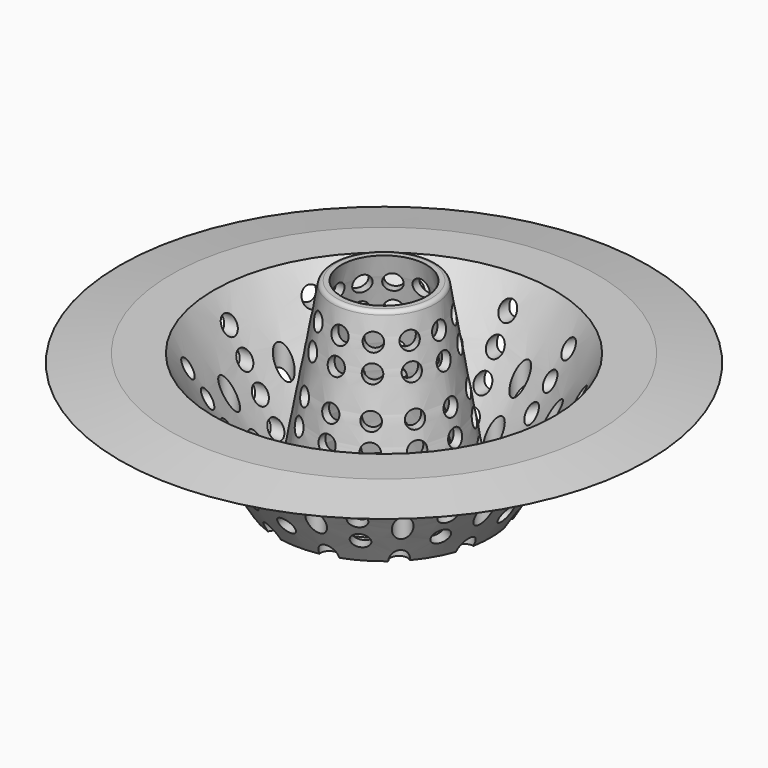
from build123d import *

# Parameters (mm, degrees)
SKETCH001_R           = 2
POCKET_DEPTH          = 424.089387
POLARPATTERN_COUNT    = 12
SKETCH002_R           = 2
POCKET001_DEPTH       = 392.089387
POLARPATTERN001_COUNT = 12
FILLET001_R           = 1
FILLET002_R           = 1


with BuildPart() as part:
    # Sketch → Revolution (revolve)
    with BuildSketch(Plane.XZ):
        Polygon((50, 0), (40, 0), (23, -28), (19.644444, -28), (12, 15), (10, 15), (18, -30), (25, -30), (42, -2), (62, -2), align=None)
    revolve(axis=Axis((0, 0, 0), (0, 0, 1)))

    # Sketch001 → Pocket (cut, through all)
    with BuildSketch(Plane.XZ):
        with Locations((0, -6)):
            Circle(SKETCH001_R)
        with Locations((0, -12)):
            Circle(SKETCH001_R)
        with Locations((0, -18)):
            Circle(SKETCH001_R)
        with Locations((0, -24)):
            Circle(SKETCH001_R)
        with Locations((0, 3)):
            Circle(SKETCH001_R)
        with Locations((0, 9)):
            Circle(SKETCH001_R)
    pocket = extrude(amount=-POCKET_DEPTH, mode=Mode.SUBTRACT)

    # PolarPattern: Pocket ×12 about axis
    polarpattern_axis = Axis((0, 0, 0), (0, 0, 1))
    for i in range(1, POLARPATTERN_COUNT):
        add(pocket.rotate(polarpattern_axis, i * 360 / POLARPATTERN_COUNT), mode=Mode.SUBTRACT)

    # Sketch002 → Pocket001 (cut, through all)
    with BuildSketch(Plane.XY):
        with Locations((6.470476, -24.148146)):
            Circle(SKETCH002_R)
        with Locations((8.02339, -29.943701)):
            Circle(SKETCH002_R)
    pocket001 = extrude(amount=-POCKET001_DEPTH, mode=Mode.SUBTRACT)

    # PolarPattern001: Pocket001 ×12 about axis
    polarpattern001_axis = Axis((0, 0, 0), (0, 0, 1))
    for i in range(1, POLARPATTERN001_COUNT):
        add(pocket001.rotate(polarpattern001_axis, i * 360 / POLARPATTERN001_COUNT), mode=Mode.SUBTRACT)

    # Fillet001
    fillet001_edges = [part.edges().sort_by_distance(p)[0] for p in [
        (-12, 0, 15),
    ]]
    fillet(fillet001_edges, radius=FILLET001_R)

    # Fillet002
    fillet002_edges = [part.edges().sort_by_distance(p)[0] for p in [
        (14.421465, -20.979926, -23.950683),
    ]]
    fillet(fillet002_edges, radius=FILLET002_R)


solid = part.part
